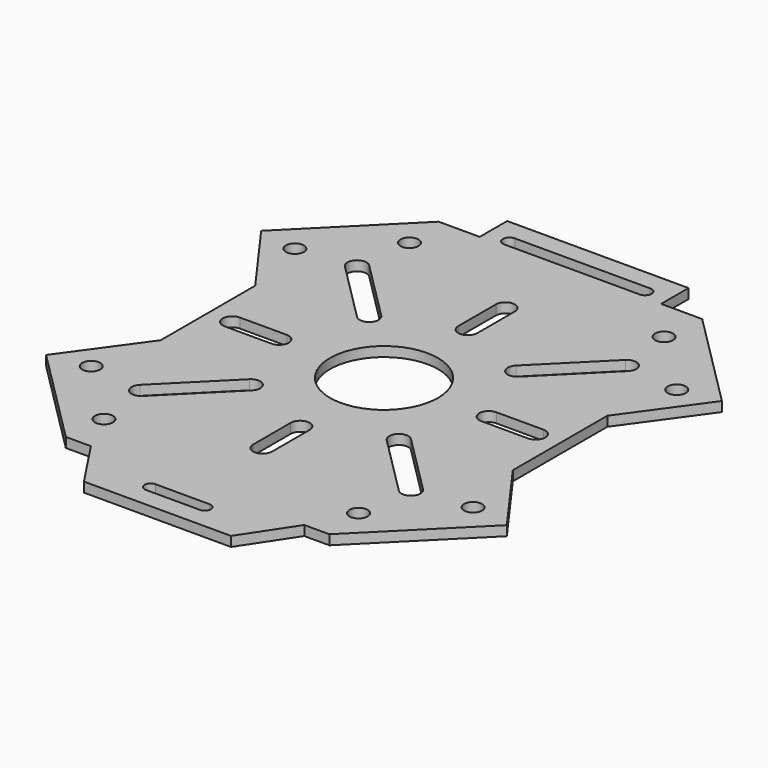
from build123d import *

# Parameters (mm, degrees)
F0_R     = 1.5
F0_R_2   = 9
F1_DEPTH = 1.6256


with BuildPart() as f1:
    # F0 (on Top) → F1 (new body)
    with BuildSketch(Plane.XY):
        Polygon((-29.337, 9.8425), (-29.337, -9.8425), (-38.3921, -22.404234), (-21.959734, -38.8366), (-17.78, -38.8366), (-12.2555, -47.1932), (0, -47.1932), (12.2555, -47.1932), (17.78, -38.8366), (21.959734, -38.8366), (38.3921, -22.404234), (29.337, -9.8425), (29.337, 9.8425), (38.3921, 22.404234), (21.959734, 38.8366), (15.113, 38.8366), (15.113, 44.5516), (0, 44.5516), (-15.113, 44.5516), (-15.113, 38.8366), (-21.959734, 38.8366), (-38.3921, 22.404234), align=None)
        with Locations((-21.213203, -31.819805)):
            Circle(F0_R, mode=Mode.SUBTRACT)
        with Locations((-31.819805, -21.213203)):
            Circle(F0_R, mode=Mode.SUBTRACT)
        with BuildLine():
            ThreePointArc((-21.354625, -23.599689), (-23.599689, -23.599689), (-23.599689, -21.354625))
            Line((-23.599689, -21.354625), (-13.470384, -11.22532))
            ThreePointArc((-13.470384, -11.22532), (-11.22532, -11.22532), (-11.22532, -13.470384))
            Line((-11.22532, -13.470384), (-21.354625, -23.599689))
        make_face(mode=Mode.SUBTRACT)
        with BuildLine():
            ThreePointArc((-4.5085, -43.9928), (-5.5245, -42.9768), (-4.5085, -41.9608))
            Line((-4.5085, -41.9608), (4.5085, -41.9608))
            ThreePointArc((4.5085, -41.9608), (5.5245, -42.9768), (4.5085, -43.9928))
            Line((4.5085, -43.9928), (-4.5085, -43.9928))
        make_face(mode=Mode.SUBTRACT)
        with Locations((21.213203, -31.819805)):
            Circle(F0_R, mode=Mode.SUBTRACT)
        with BuildLine():
            Line((1.5875, -17.4625), (1.5875, -25.2875))
            ThreePointArc((1.5875, -25.2875), (0, -26.875), (-1.5875, -25.2875))
            Line((-1.5875, -25.2875), (-1.5875, -17.4625))
            ThreePointArc((-1.5875, -17.4625), (0, -15.875), (1.5875, -17.4625))
        make_face(mode=Mode.SUBTRACT)
        with BuildLine():
            ThreePointArc((23.599689, -21.354625), (23.599689, -23.599689), (21.354625, -23.599689))
            Line((21.354625, -23.599689), (11.22532, -13.470384))
            ThreePointArc((11.22532, -13.470384), (11.22532, -11.22532), (13.470384, -11.22532))
            Line((13.470384, -11.22532), (23.599689, -21.354625))
        make_face(mode=Mode.SUBTRACT)
        with Locations((31.819805, -21.213203)):
            Circle(F0_R, mode=Mode.SUBTRACT)
        with BuildLine():
            Line((-17.4625, -1.5875), (-25.2875, -1.5875))
            ThreePointArc((-25.2875, -1.5875), (-26.875, 0), (-25.2875, 1.5875))
            Line((-25.2875, 1.5875), (-17.4625, 1.5875))
            ThreePointArc((-17.4625, 1.5875), (-15.875, 0), (-17.4625, -1.5875))
        make_face(mode=Mode.SUBTRACT)
        with Locations((-31.819805, 21.213203)):
            Circle(F0_R, mode=Mode.SUBTRACT)
        with BuildLine():
            Line((-13.470384, 11.22532), (-23.599689, 21.354625))
            ThreePointArc((-23.599689, 21.354625), (-23.599689, 23.599689), (-21.354625, 23.599689))
            Line((-21.354625, 23.599689), (-11.22532, 13.470384))
            ThreePointArc((-11.22532, 13.470384), (-11.22532, 11.22532), (-13.470384, 11.22532))
        make_face(mode=Mode.SUBTRACT)
        with Locations((-21.213203, 31.819805)):
            Circle(F0_R, mode=Mode.SUBTRACT)
        Circle(F0_R_2, mode=Mode.SUBTRACT)
        with BuildLine():
            Line((-1.5875, 17.4625), (-1.5875, 25.2875))
            ThreePointArc((-1.5875, 25.2875), (0, 26.875), (1.5875, 25.2875))
            Line((1.5875, 25.2875), (1.5875, 17.4625))
            ThreePointArc((1.5875, 17.4625), (0, 15.875), (-1.5875, 17.4625))
        make_face(mode=Mode.SUBTRACT)
        with BuildLine():
            ThreePointArc((21.354625, 23.599689), (23.599689, 23.599689), (23.599689, 21.354625))
            Line((23.599689, 21.354625), (13.470384, 11.22532))
            ThreePointArc((13.470384, 11.22532), (11.22532, 11.22532), (11.22532, 13.470384))
            Line((11.22532, 13.470384), (21.354625, 23.599689))
        make_face(mode=Mode.SUBTRACT)
        with BuildLine():
            Line((17.4625, 1.5875), (25.2875, 1.5875))
            ThreePointArc((25.2875, 1.5875), (26.875, 0), (25.2875, -1.5875))
            Line((25.2875, -1.5875), (17.4625, -1.5875))
            ThreePointArc((17.4625, -1.5875), (15.875, 0), (17.4625, 1.5875))
        make_face(mode=Mode.SUBTRACT)
        with Locations((31.819805, 21.213203)):
            Circle(F0_R, mode=Mode.SUBTRACT)
        with BuildLine():
            ThreePointArc((-11.2903, 39.1668), (-12.3825, 40.259), (-11.2903, 41.3512))
            Line((-11.2903, 41.3512), (11.2903, 41.3512))
            ThreePointArc((11.2903, 41.3512), (12.3825, 40.259), (11.2903, 39.1668))
            Line((11.2903, 39.1668), (-11.2903, 39.1668))
        make_face(mode=Mode.SUBTRACT)
        with Locations((21.213203, 31.819805)):
            Circle(F0_R, mode=Mode.SUBTRACT)
    extrude(amount=F1_DEPTH)


solid = f1.part
